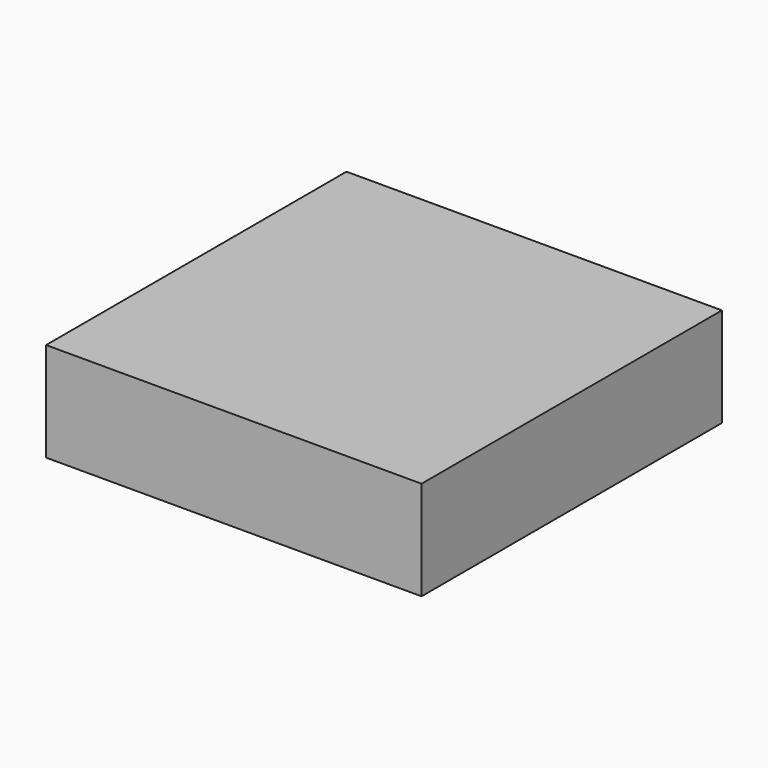
from build123d import *

# Parameters (mm, degrees)
F0_W     = 50
F0_H     = 50
F1_DEPTH = 13.2
F2_R     = 2.5
F3_DEPTH = 10


with BuildPart() as f1:
    # F0 (on Top) → F1 (new body)
    with BuildSketch(Plane.XY):
        with Locations((2.902336, -14.736132)):
            Rectangle(F0_W, F0_H)
    extrude(amount=F1_DEPTH)

    # F2 (on face) → F3 (cut)
    with BuildSketch(Plane(origin=(-22.097664, 0, 0), x_dir=(0, -1, 0), z_dir=(-1, 0, 0))):
        with Locations((2.236132, 6.6)):
            Circle(F2_R)
        with Locations((14.736132, 6.6)):
            Circle(F2_R)
        with Locations((27.236132, 6.6)):
            Circle(F2_R)
    extrude(amount=-F3_DEPTH, mode=Mode.SUBTRACT)


solid = f1.part
